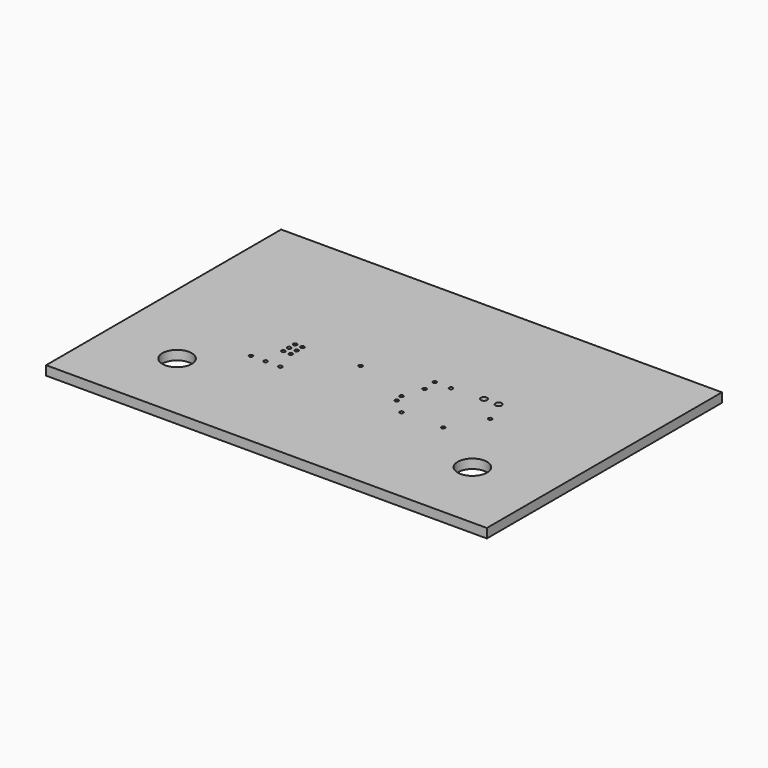
from build123d import *

# Parameters (mm, degrees)
F1_W     = 76.2
F1_H     = 50.8
F2_DEPTH = 1.6002
F3_R     = 2.54
F3_R_2   = 0.3175
F3_R_3   = 0.55118
F4_DEPTH = 1.6012


with BuildPart() as f2:
    # F1 (on face) → F2 (new body)
    with BuildSketch(Plane.XY):
        Rectangle(F1_W, F1_H)
    extrude(amount=F2_DEPTH)

    # F3 (on face) → F4 (cut, through all)
    with BuildSketch(Plane.XY.offset(1.6002)):
        with Locations((-25.5016, -12.8397)):
            Circle(F3_R)
        with Locations((25.4762, -12.7381)):
            Circle(F3_R)
        with Locations((-18.20926, -5.9944)):
            Circle(F3_R_2)
        with Locations((-15.66926, -5.9944)):
            Circle(F3_R_2)
        with Locations((-13.12926, -5.9944)):
            Circle(F3_R_2)
        with Locations((-15.6464, -2.1971)):
            Circle(F3_R_2)
        with Locations((-14.3764, -2.1971)):
            Circle(F3_R_2)
        with Locations((-14.3764, -0.9271)):
            Circle(F3_R_2)
        with Locations((-15.6464, -0.9271)):
            Circle(F3_R_2)
        with Locations((-15.6464, 0.3429)):
            Circle(F3_R_2)
        with Locations((-14.3764, 0.3429)):
            Circle(F3_R_2)
        with Locations((5.30352, -3.87604)):
            Circle(F3_R_2)
        with Locations((5.01904, -2.49936)):
            Circle(F3_R_2)
        with Locations((-4.81076, 0.94742)):
            Circle(F3_R_2)
        with Locations((6.13918, 1.08712)):
            Circle(F3_R_2)
        with Locations((5.95884, 3.50774)):
            Circle(F3_R_2)
        with Locations((8.78586, 3.46964)):
            Circle(F3_R_2)
        with Locations((14.224, 3.82016)):
            Circle(F3_R_3)
        with Locations((16.764, 3.82016)):
            Circle(F3_R_3)
        with Locations((18.51914, -0.19304)):
            Circle(F3_R_2)
        with Locations((7.97306, -6.18236)):
            Circle(F3_R_2)
        with Locations((15.12062, -6.12648)):
            Circle(F3_R_2)
    extrude(amount=-F4_DEPTH, mode=Mode.SUBTRACT)


solid = f2.part
